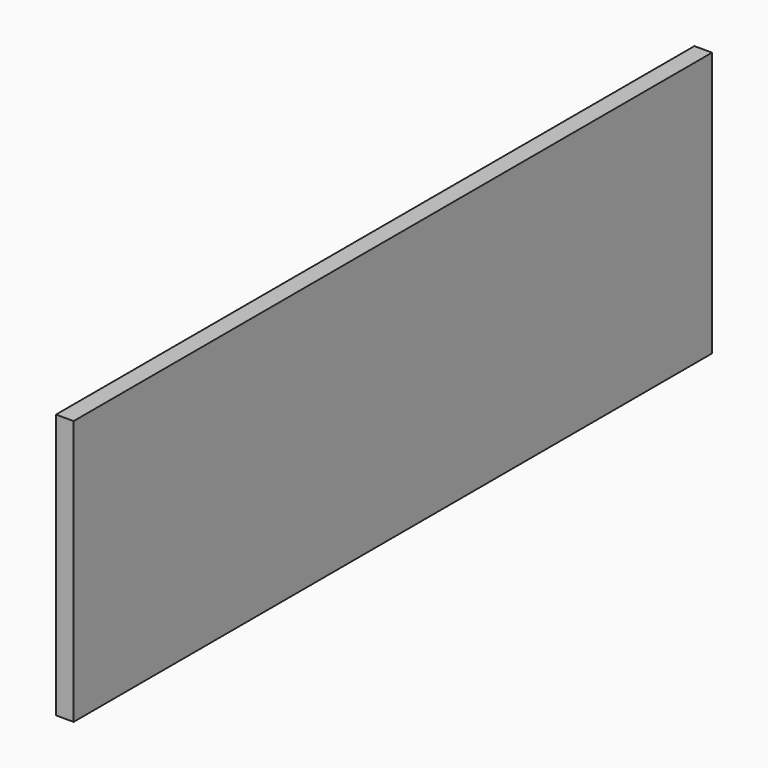
from build123d import *

# Parameters (mm, degrees)
PAD_DEPTH = 10


with BuildPart() as part:
    # Sketch → Pad (new body)
    with BuildSketch(Plane.YZ):
        Polygon((0, 0), (0, 150), (452, 150), (452, 0), (226, 0), align=None)
    extrude(amount=-PAD_DEPTH)


solid = part.part
